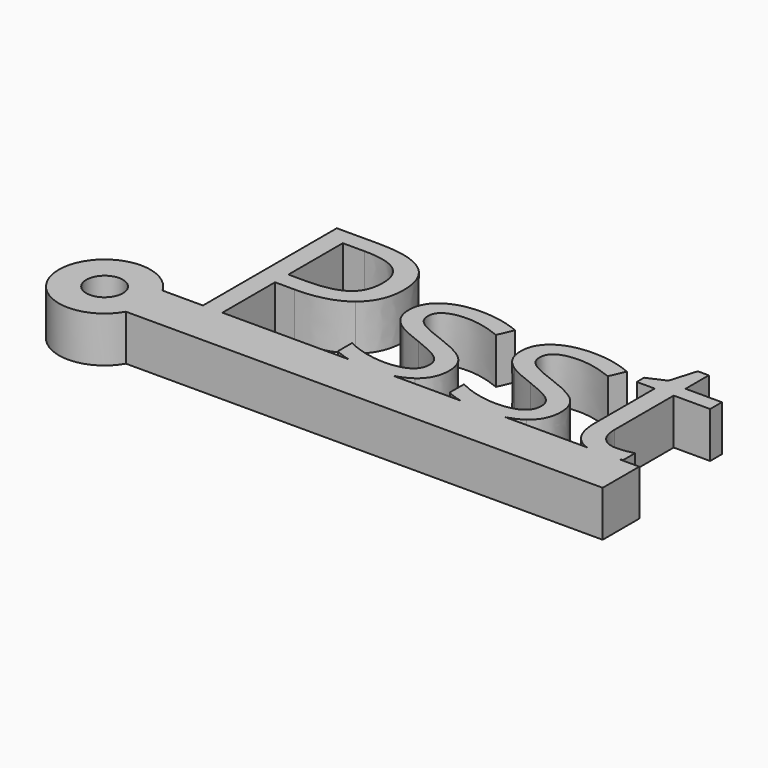
from build123d import *

# Parameters (mm, degrees)
F0_R     = 2
F1_DEPTH = 5


with BuildPart() as f1:
    # F0 (on Top) → F1 (new body)
    with BuildSketch(Plane.XY):
        with BuildLine():
            Line((-18.1624217064, 0), (-22.5719264863, 0))
            ThreePointArc((-22.5719264863, 0), (-22.0724243737, -1.2059047745), (-21.9020535052, -2.5))
            ThreePointArc((-21.9020535052, -2.5), (-22.0724243737, -3.7940952255), (-22.5719264863, -5))
            Line((-22.5719264863, -5), (29.4983200729, -5))
            Line((29.4983200729, -5), (29.4983200729, 0))
            Line((29.4983200729, 0), (27.3306982624, 0))
            add(Edge.make_bspline(
                [(27.3306982624, 0), (27.0565868286, -0.0808872186), (26.6731651405, -0.1440115209)],
                knots=[0.4155624782, 0.4155624782, 0.4155624782, 1, 1, 1], degree=2))
            add(Edge.make_bspline(
                [(26.6731651405, -0.1440115209), (26.0171126563, -0.2520201616), (25.4890704129, -0.2520201616)],
                knots=[0, 0, 0, 1, 1, 1], degree=2))
            add(Edge.make_bspline(
                [(25.4890704129, -0.2520201616), (24.5146622385, -0.2520201616), (23.7792760511, 0)],
                knots=[0, 0, 0, 0.245299653, 0.245299653, 0.245299653], degree=2))
            Line((23.7792760511, 0), (14.8230424682, 0))
            add(Edge.make_bspline(
                [(14.8230424682, 0), (13.8333887774, -0.2520201616), (12.5640364102, -0.2520201616)],
                knots=[0.5072784088, 0.5072784088, 0.5072784088, 1, 1, 1], degree=2))
            add(Edge.make_bspline(
                [(12.5640364102, -0.2520201616), (11.092790572, -0.2520201616), (9.9715727361, 0)],
                knots=[0, 0, 0, 0.5400617249, 0.5400617249, 0.5400617249], degree=2))
            Line((9.9715727361, 0), (2.61006543, 0))
            add(Edge.make_bspline(
                [(2.61006543, 0), (1.6204117393, -0.2520201616), (0.3510593721, -0.2520201616)],
                knots=[0.5072784088, 0.5072784088, 0.5072784088, 1, 1, 1], degree=2))
            add(Edge.make_bspline(
                [(0.3510593721, -0.2520201616), (-1.1201864661, -0.2520201616), (-2.2414043021, 0)],
                knots=[0, 0, 0, 0.5400617249, 0.5400617249, 0.5400617249], degree=2))
            Line((-2.2414043021, 0), (-16.0382517728, 0))
            Line((-16.0382517728, 0), (-18.1624217064, 0))
        make_face()
        with BuildLine():
            ThreePointArc((-21.9020535052, -2.5), (-22.0724243737, -1.2059047745), (-22.5719264863, 0))
            ThreePointArc((-22.5719264863, 0), (-31.9020535052, -2.5), (-22.5719264863, -5))
            ThreePointArc((-22.5719264863, -5), (-22.0724243737, -3.7940952255), (-21.9020535052, -2.5))
        make_face()
        with Locations((-26.9020535052, -2.5)):
            Circle(F0_R, mode=Mode.SUBTRACT)
        with BuildLine():
            Line((-18.1624217064, 18.277462197), (-18.1624217064, 0))
            Line((-18.1624217064, 0), (-16.0382517728, 0))
            Line((-16.0382517728, 0), (-16.0382517728, 7.188575086))
            Line((-16.0382517728, 7.188575086), (-13.8860795991, 7.188575086))
            add(Edge.make_bspline(
                [(-8.4676461244, 8.6826946156), (-10.3617976565, 7.188575086), (-13.8860795991, 7.188575086)],
                knots=[0, 0, 0, 1, 1, 1], degree=2))
            add(Edge.make_bspline(
                [(-6.5734945923, 12.9530362429), (-6.5734945923, 10.1768141451), (-8.4676461244, 8.6826946156)],
                knots=[0, 0, 0, 1, 1, 1], degree=2))
            add(Edge.make_bspline(
                [(-13.4220424761, 18.277462197), (-6.5734945923, 18.277462197), (-6.5734945923, 12.9530362429)],
                knots=[0, 0, 0, 1, 1, 1], degree=2))
            Line((-13.4220424761, 18.277462197), (-18.1624217064, 18.277462197))
        make_face()
        with BuildLine():
            Line((-14.1220984806, 9.0127210177), (-16.0382517728, 9.0127210177))
            Line((-16.0382517728, 9.0127210177), (-16.0382517728, 16.4373149852))
            Line((-16.0382517728, 16.4373149852), (-13.6620616776, 16.4373149852))
            add(Edge.make_bspline(
                [(-9.9617656539, 15.5512440995), (-11.1498607015, 16.4373149852), (-13.6620616776, 16.4373149852)],
                knots=[0, 0, 0, 1, 1, 1], degree=2))
            add(Edge.make_bspline(
                [(-8.7736706063, 12.8530282423), (-8.7736706063, 14.6651732139), (-9.9617656539, 15.5512440995)],
                knots=[0, 0, 0, 1, 1, 1], degree=2))
            add(Edge.make_bspline(
                [(-10.0357715744, 9.9247939835), (-8.7736706063, 10.8368669494), (-8.7736706063, 12.8530282423)],
                knots=[0, 0, 0, 1, 1, 1], degree=2))
            add(Edge.make_bspline(
                [(-14.1220984806, 9.0127210177), (-11.2978725425, 9.0127210177), (-10.0357715744, 9.9247939835)],
                knots=[0, 0, 0, 1, 1, 1], degree=2))
        make_face(mode=Mode.SUBTRACT)
        with BuildLine():
            add(Edge.make_bspline(
                [(-2.2414043021, 0), (-3.1962784837, 0.2146305007), (-3.8972804951, 0.6120489639)],
                knots=[0.5400617249, 0.5400617249, 0.5400617249, 1, 1, 1], degree=2))
            Line((-2.2414043021, 0), (2.61006543, 0))
            add(Edge.make_bspline(
                [(4.3513793977, 0.786062885), (3.6289571498, 0.259465769), (2.61006543, 0)],
                knots=[0, 0, 0, 0.5072784088, 0.5072784088, 0.5072784088], degree=2))
            add(Edge.make_bspline(
                [(5.7754933268, 3.7362989039), (5.7754933268, 1.8241459317), (4.3513793977, 0.786062885)],
                knots=[0, 0, 0, 1, 1, 1], degree=2))
            add(Edge.make_bspline(
                [(4.9194248413, 6.0004800384), (5.7754933268, 5.1004080326), (5.7754933268, 3.7362989039)],
                knots=[0, 0, 0, 1, 1, 1], degree=2))
            add(Edge.make_bspline(
                [(1.6271614602, 7.7886230898), (4.0633563558, 6.9005520442), (4.9194248413, 6.0004800384)],
                knots=[0, 0, 0, 1, 1, 1], degree=2))
            add(Edge.make_bspline(
                [(-0.7730305551, 8.8027042163), (-0.1489806311, 8.4526762141), (1.6271614602, 7.7886230898)],
                knots=[0, 0, 0, 1, 1, 1], degree=2))
            add(Edge.make_bspline(
                [(-1.6791030409, 9.538763101), (-1.3970804791, 9.1527322186), (-0.7730305551, 8.8027042163)],
                knots=[0, 0, 0, 1, 1, 1], degree=2))
            add(Edge.make_bspline(
                [(-1.9611256027, 10.4768381471), (-1.9611256027, 9.9247939835), (-1.6791030409, 9.538763101)],
                knots=[0, 0, 0, 1, 1, 1], degree=2))
            add(Edge.make_bspline(
                [(-1.2110655979, 11.7509400752), (-1.9611256027, 11.2889031122), (-1.9611256027, 10.4768381471)],
                knots=[0, 0, 0, 1, 1, 1], degree=2))
            add(Edge.make_bspline(
                [(1.0151124963, 12.2129770382), (-0.4610055931, 12.2129770382), (-1.2110655979, 11.7509400752)],
                knots=[0, 0, 0, 1, 1, 1], degree=2))
            add(Edge.make_bspline(
                [(4.7514114002, 11.3649091927), (2.691246587, 12.2129770382), (1.0151124963, 12.2129770382)],
                knots=[0, 0, 0, 1, 1, 1], degree=2))
            Line((4.7514114002, 11.3649091927), (5.491470605, 13.0530442435))
            add(Edge.make_bspline(
                [(1.1631243373, 13.9531162493), (3.3753013114, 13.9531162493), (5.491470605, 13.0530442435)],
                knots=[0, 0, 0, 1, 1, 1], degree=2))
            add(Edge.make_bspline(
                [(-2.5731745667, 12.9830386431), (-1.2090654379, 13.9531162493), (1.1631243373, 13.9531162493)],
                knots=[0, 0, 0, 1, 1, 1], degree=2))
            add(Edge.make_bspline(
                [(-3.9372836954, 10.3368269462), (-3.9372836954, 12.0129610369), (-2.5731745667, 12.9830386431)],
                knots=[0, 0, 0, 1, 1, 1], degree=2))
            add(Edge.make_bspline(
                [(-3.5432521729, 8.7266981359), (-3.9372836954, 9.4007520602), (-3.9372836954, 10.3368269462)],
                knots=[0, 0, 0, 1, 1, 1], degree=2))
            add(Edge.make_bspline(
                [(-2.3431561652, 7.5206016481), (-3.1492206503, 8.0526442115), (-3.5432521729, 8.7266981359)],
                knots=[0, 0, 0, 1, 1, 1], degree=2))
            add(Edge.make_bspline(
                [(0.3750612922, 6.2765021202), (-1.53709168, 6.9885590847), (-2.3431561652, 7.5206016481)],
                knots=[0, 0, 0, 1, 1, 1], degree=2))
            add(Edge.make_bspline(
                [(3.0832779495, 4.9323945916), (2.3912225851, 5.5004400352), (0.3750612922, 6.2765021202)],
                knots=[0, 0, 0, 1, 1, 1], degree=2))
            add(Edge.make_bspline(
                [(3.775333314, 3.5642851428), (3.775333314, 4.3643491479), (3.0832779495, 4.9323945916)],
                knots=[0, 0, 0, 1, 1, 1], degree=2))
            add(Edge.make_bspline(
                [(2.9012633884, 1.9821585727), (3.775333314, 2.500200016), (3.775333314, 3.5642851428)],
                knots=[0, 0, 0, 1, 1, 1], degree=2))
            add(Edge.make_bspline(
                [(0.4030635324, 1.4641171294), (2.0271934628, 1.4641171294), (2.9012633884, 1.9821585727)],
                knots=[0, 0, 0, 1, 1, 1], degree=2))
            add(Edge.make_bspline(
                [(-1.7791110416, 1.7501400112), (-0.6490206343, 1.4641171294), (0.4030635324, 1.4641171294)],
                knots=[0, 0, 0, 1, 1, 1], degree=2))
            add(Edge.make_bspline(
                [(-3.8972804951, 2.5362028962), (-2.9092014488, 2.036162893), (-1.7791110416, 1.7501400112)],
                knots=[0, 0, 0, 1, 1, 1], degree=2))
            Line((-3.8972804951, 2.5362028962), (-3.8972804951, 0.6120489639))
        make_face()
        with BuildLine():
            Line((2.61006543, 0), (-2.2414043021, 0))
            add(Edge.make_bspline(
                [(0.3510593721, -0.2520201616), (-1.1201864661, -0.2520201616), (-2.2414043021, 0)],
                knots=[0, 0, 0, 0.5400617249, 0.5400617249, 0.5400617249], degree=2))
            add(Edge.make_bspline(
                [(2.61006543, 0), (1.6204117393, -0.2520201616), (0.3510593721, -0.2520201616)],
                knots=[0.5072784088, 0.5072784088, 0.5072784088, 1, 1, 1], degree=2))
        make_face()
        with BuildLine():
            add(Edge.make_bspline(
                [(27.3306982624, 0), (27.0565868286, -0.0808872186), (26.6731651405, -0.1440115209)],
                knots=[0.4155624782, 0.4155624782, 0.4155624782, 1, 1, 1], degree=2))
            Line((27.3306982624, 0), (23.7792760511, 0))
            add(Edge.make_bspline(
                [(25.4890704129, -0.2520201616), (24.5146622385, -0.2520201616), (23.7792760511, 0)],
                knots=[0, 0, 0, 0.245299653, 0.245299653, 0.245299653], degree=2))
            add(Edge.make_bspline(
                [(26.6731651405, -0.1440115209), (26.0171126563, -0.2520201616), (25.4890704129, -0.2520201616)],
                knots=[0, 0, 0, 1, 1, 1], degree=2))
        make_face()
        with BuildLine():
            Line((23.7792760511, 0), (27.3306982624, 0))
            add(Edge.make_bspline(
                [(27.6652445069, 0.1240099208), (27.525604343, 0.0575146047), (27.3306982624, 0)],
                knots=[0, 0, 0, 0.4155624782, 0.4155624782, 0.4155624782], degree=2))
            Line((27.6652445069, 0.1240099208), (27.6652445069, 1.712136971))
            add(Edge.make_bspline(
                [(26.8531795417, 1.5441235299), (27.3652205049, 1.6241299304), (27.6652445069, 1.712136971)],
                knots=[0, 0, 0, 1, 1, 1], degree=2))
            add(Edge.make_bspline(
                [(25.7890944149, 1.4641171294), (26.3411385784, 1.4641171294), (26.8531795417, 1.5441235299)],
                knots=[0, 0, 0, 1, 1, 1], degree=2))
            add(Edge.make_bspline(
                [(24.1769654445, 2.1261700936), (24.7650124883, 1.4641171294), (25.7890944149, 1.4641171294)],
                knots=[0, 0, 0, 1, 1, 1], degree=2))
            add(Edge.make_bspline(
                [(23.5889184008, 4.0243219458), (23.5889184008, 2.7882230578), (24.1769654445, 2.1261700936)],
                knots=[0, 0, 0, 1, 1, 1], degree=2))
            Line((23.5889184008, 4.0243219458), (23.5889184008, 12.0889671174))
            Line((23.5889184008, 12.0889671174), (27.5652365062, 12.0889671174))
            Line((27.5652365062, 12.0889671174), (27.5652365062, 13.7010960877))
            Line((27.5652365062, 13.7010960877), (23.5889184008, 13.7010960877))
            Line((23.5889184008, 13.7010960877), (23.5889184008, 16.877350188))
            Line((23.5889184008, 16.877350188), (22.3888223931, 16.877350188))
            Line((22.3888223931, 16.877350188), (21.5167526275, 13.9531162493))
            Line((21.5167526275, 13.9531162493), (19.5525954949, 13.0890471238))
            Line((19.5525954949, 13.0890471238), (19.5525954949, 12.0889671174))
            Line((19.5525954949, 12.0889671174), (21.5167526275, 12.0889671174))
            Line((21.5167526275, 12.0889671174), (21.5167526275, 3.9363149052))
            add(Edge.make_bspline(
                [(23.7792760511, 0), (21.5167526275, 0.775376977), (21.5167526275, 3.9363149052)],
                knots=[0.245299653, 0.245299653, 0.245299653, 1, 1, 1], degree=2))
        make_face()
        with BuildLine():
            add(Edge.make_bspline(
                [(9.9715727361, 0), (9.0166985545, 0.2146305007), (8.315696543, 0.6120489639)],
                knots=[0.5400617249, 0.5400617249, 0.5400617249, 1, 1, 1], degree=2))
            Line((9.9715727361, 0), (14.8230424682, 0))
            add(Edge.make_bspline(
                [(16.5643564358, 0.786062885), (15.841934188, 0.259465769), (14.8230424682, 0)],
                knots=[0, 0, 0, 0.5072784088, 0.5072784088, 0.5072784088], degree=2))
            add(Edge.make_bspline(
                [(17.9884703649, 3.7362989039), (17.9884703649, 1.8241459317), (16.5643564358, 0.786062885)],
                knots=[0, 0, 0, 1, 1, 1], degree=2))
            add(Edge.make_bspline(
                [(17.1324018795, 6.0004800384), (17.9884703649, 5.1004080326), (17.9884703649, 3.7362989039)],
                knots=[0, 0, 0, 1, 1, 1], degree=2))
            add(Edge.make_bspline(
                [(13.8401384984, 7.7886230898), (16.276333394, 6.9005520442), (17.1324018795, 6.0004800384)],
                knots=[0, 0, 0, 1, 1, 1], degree=2))
            add(Edge.make_bspline(
                [(11.439946483, 8.8027042163), (12.063996407, 8.4526762141), (13.8401384984, 7.7886230898)],
                knots=[0, 0, 0, 1, 1, 1], degree=2))
            add(Edge.make_bspline(
                [(10.5338739972, 9.538763101), (10.815896559, 9.1527322186), (11.439946483, 8.8027042163)],
                knots=[0, 0, 0, 1, 1, 1], degree=2))
            add(Edge.make_bspline(
                [(10.2518514354, 10.4768381471), (10.2518514354, 9.9247939835), (10.5338739972, 9.538763101)],
                knots=[0, 0, 0, 1, 1, 1], degree=2))
            add(Edge.make_bspline(
                [(11.0019114402, 11.7509400752), (10.2518514354, 11.2889031122), (10.2518514354, 10.4768381471)],
                knots=[0, 0, 0, 1, 1, 1], degree=2))
            add(Edge.make_bspline(
                [(13.2280895345, 12.2129770382), (11.751971445, 12.2129770382), (11.0019114402, 11.7509400752)],
                knots=[0, 0, 0, 1, 1, 1], degree=2))
            add(Edge.make_bspline(
                [(16.9643884384, 11.3649091927), (14.9042236252, 12.2129770382), (13.2280895345, 12.2129770382)],
                knots=[0, 0, 0, 1, 1, 1], degree=2))
            Line((16.9643884384, 11.3649091927), (17.7044476431, 13.0530442435))
            add(Edge.make_bspline(
                [(13.3761013754, 13.9531162493), (15.5882783496, 13.9531162493), (17.7044476431, 13.0530442435)],
                knots=[0, 0, 0, 1, 1, 1], degree=2))
            add(Edge.make_bspline(
                [(9.6398024715, 12.9830386431), (11.0039116002, 13.9531162493), (13.3761013754, 13.9531162493)],
                knots=[0, 0, 0, 1, 1, 1], degree=2))
            add(Edge.make_bspline(
                [(8.2756933428, 10.3368269462), (8.2756933428, 12.0129610369), (9.6398024715, 12.9830386431)],
                knots=[0, 0, 0, 1, 1, 1], degree=2))
            add(Edge.make_bspline(
                [(8.6697248653, 8.7266981359), (8.2756933428, 9.4007520602), (8.2756933428, 10.3368269462)],
                knots=[0, 0, 0, 1, 1, 1], degree=2))
            add(Edge.make_bspline(
                [(9.869820873, 7.5206016481), (9.0637563878, 8.0526442115), (8.6697248653, 8.7266981359)],
                knots=[0, 0, 0, 1, 1, 1], degree=2))
            add(Edge.make_bspline(
                [(12.5880383304, 6.2765021202), (10.6758853581, 6.9885590847), (9.869820873, 7.5206016481)],
                knots=[0, 0, 0, 1, 1, 1], degree=2))
            add(Edge.make_bspline(
                [(15.2962549877, 4.9323945916), (14.6041996233, 5.5004400352), (12.5880383304, 6.2765021202)],
                knots=[0, 0, 0, 1, 1, 1], degree=2))
            add(Edge.make_bspline(
                [(15.9883103521, 3.5642851428), (15.9883103521, 4.3643491479), (15.2962549877, 4.9323945916)],
                knots=[0, 0, 0, 1, 1, 1], degree=2))
            add(Edge.make_bspline(
                [(15.1142404265, 1.9821585727), (15.9883103521, 2.500200016), (15.9883103521, 3.5642851428)],
                knots=[0, 0, 0, 1, 1, 1], degree=2))
            add(Edge.make_bspline(
                [(12.6160405706, 1.4641171294), (14.2401705009, 1.4641171294), (15.1142404265, 1.9821585727)],
                knots=[0, 0, 0, 1, 1, 1], degree=2))
            add(Edge.make_bspline(
                [(10.4338659966, 1.7501400112), (11.5639564038, 1.4641171294), (12.6160405706, 1.4641171294)],
                knots=[0, 0, 0, 1, 1, 1], degree=2))
            add(Edge.make_bspline(
                [(8.315696543, 2.5362028962), (9.3037755894, 2.036162893), (10.4338659966, 1.7501400112)],
                knots=[0, 0, 0, 1, 1, 1], degree=2))
            Line((8.315696543, 2.5362028962), (8.315696543, 0.6120489639))
        make_face()
        with BuildLine():
            Line((14.8230424682, 0), (9.9715727361, 0))
            add(Edge.make_bspline(
                [(12.5640364102, -0.2520201616), (11.092790572, -0.2520201616), (9.9715727361, 0)],
                knots=[0, 0, 0, 0.5400617249, 0.5400617249, 0.5400617249], degree=2))
            add(Edge.make_bspline(
                [(14.8230424682, 0), (13.8333887774, -0.2520201616), (12.5640364102, -0.2520201616)],
                knots=[0.5072784088, 0.5072784088, 0.5072784088, 1, 1, 1], degree=2))
        make_face()
    extrude(amount=F1_DEPTH)


solid = f1.part
